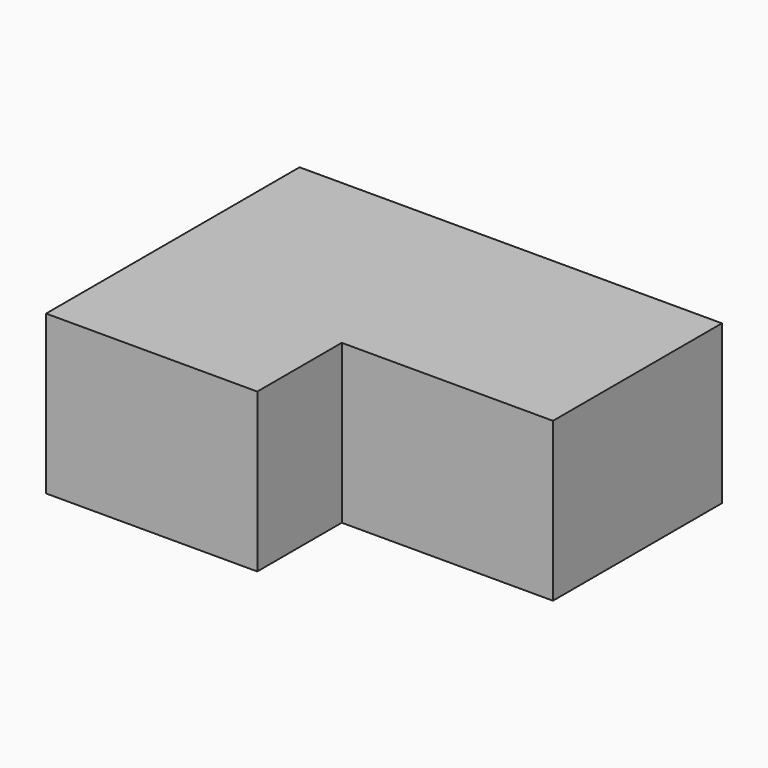
from build123d import *

# Parameters (mm, degrees)
F0_W      = 101.6
F0_H      = 38.1
F1_DEPTH  = 25.4
F2_W      = 50.8
F2_H      = 38.1
F3_DEPTH  = 25.4
F1_FACE_W = 50.8
F1_FACE_H = 38.1
F4_DEPTH  = 50.8


with BuildPart() as f1:
    # F0 (on Front) → F1 (new body)
    with BuildSketch(Plane.XZ):
        Rectangle(F0_W, F0_H)
    extrude(amount=F1_DEPTH)

    # F2 (on face) → F3 (join)
    with BuildSketch(Plane.XZ.offset(25.4)):
        with Locations((25.4, 0)):
            Rectangle(F2_W, F2_H)
    extrude(amount=F3_DEPTH)

    # F1_face (on face) → F4 (join)
    with BuildSketch(Plane.XZ.offset(25.4)):
        with Locations((-25.4, 0)):
            Rectangle(F1_FACE_W, F1_FACE_H)
    extrude(amount=F4_DEPTH)


solid = f1.part
